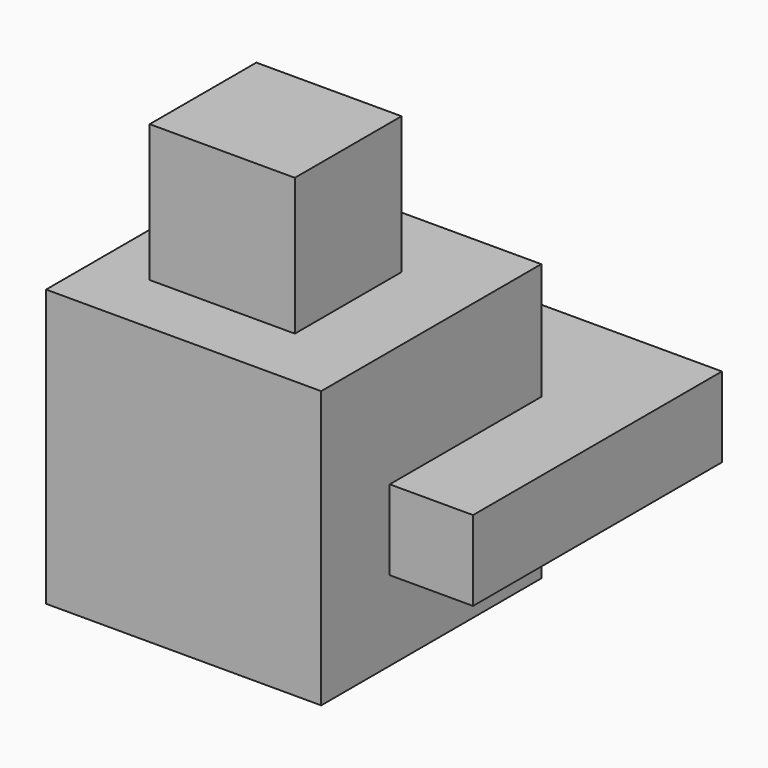
from build123d import *

# Parameters (mm, degrees)
F0_W     = 2540
F0_H     = 2554.350389
F1_DEPTH = 2540
F2_W     = 1340.480209
F2_H     = 1231.053293
F3_DEPTH = 2540
F4_W     = 2872.457623
F4_H     = 738.631963
F5_DEPTH = 2032


with BuildPart() as f1:
    # F0 (on Front) → F1 (new body)
    with BuildSketch(Plane.XZ):
        with Locations((-7.109645, -4.035211)):
            Rectangle(F0_W, F0_H)
    extrude(amount=F1_DEPTH)

    # F2 (on Top) → F3 (join)
    with BuildSketch(Plane.XY):
        with Locations((-116.536558, -1341.811448)):
            Rectangle(F2_W, F2_H)
    extrude(amount=F3_DEPTH)

    # F4 (on Right) → F5 (join)
    with BuildSketch(Plane.YZ):
        with Locations((-312.514126, -175.014854)):
            Rectangle(F4_W, F4_H)
    extrude(amount=F5_DEPTH)


solid = f1.part
